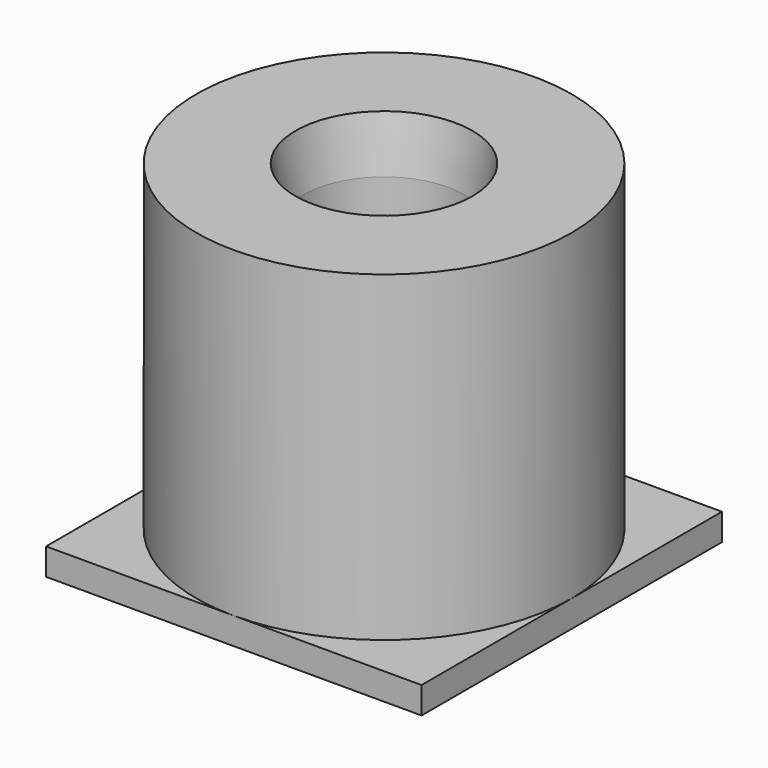
from build123d import *

# Parameters (mm, degrees)
F0_W     = 7
F0_H     = 7
F1_DEPTH = 0.5
F2_R     = 3.5
F2_R_2   = 1.5
F3_DEPTH = 6
F4_SIZE2 = 1
F4_SIZE  = 0.15


with BuildPart() as f1:
    # F0 (on Top) → F1 (new body)
    with BuildSketch(Plane.XY):
        with Locations((3.5, 3.5)):
            Rectangle(F0_W, F0_H)
    extrude(amount=F1_DEPTH)

    # F2 (on face) → F3 (join)
    with BuildSketch(Plane.XY.offset(0.5)):
        with Locations((3.5, 3.5)):
            Circle(F2_R)
        with Locations((3.5, 3.5)):
            Circle(F2_R_2, mode=Mode.SUBTRACT)
    extrude(amount=F3_DEPTH)

    # F4
    f4_edges = [f1.edges().sort_by_distance(p)[0] for p in [
        (2, 3.5, 6.5),
    ]]
    chamfer(f4_edges, length=F4_SIZE, length2=F4_SIZE2)


solid = f1.part
